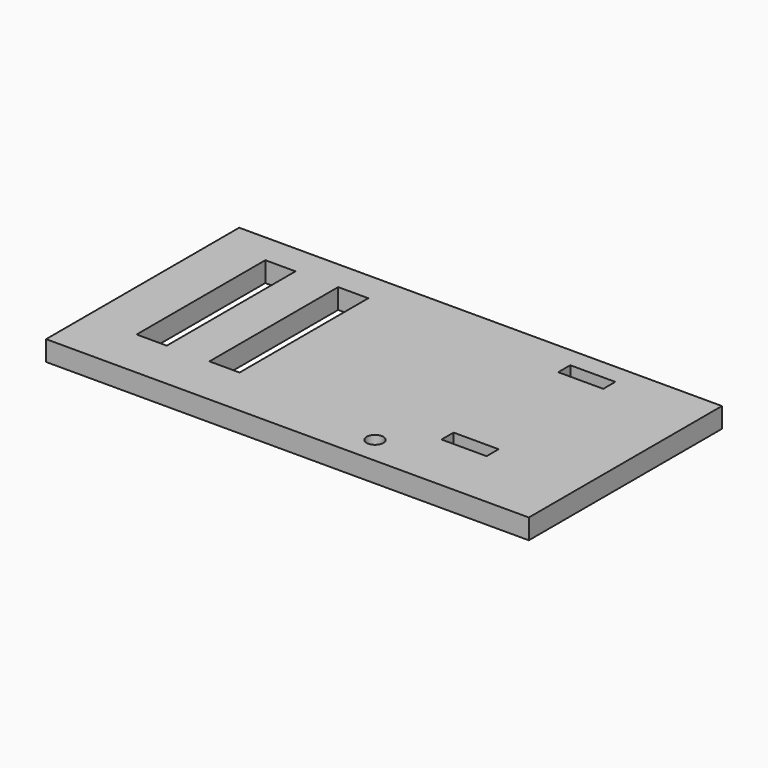
from build123d import *

# Parameters (mm, degrees)
F0_W     = 152.4
F0_H     = 76.2
F0_R     = 2.646467
F0_W_2   = 14.224
F0_H_2   = 4.7625
F0_W_3   = 9.525
F0_H_3   = 50.8
F1_DEPTH = 6.35


with BuildPart() as f1:
    # F0 (on Top) → F1 (new body)
    with BuildSketch(Plane.XY):
        with Locations((76.2, -38.1)):
            Rectangle(F0_W, F0_H)
        with Locations((96.901, -67.5386)):
            Circle(F0_R, mode=Mode.SUBTRACT)
        with Locations((116.713, -54.76875)):
            Rectangle(F0_W_2, F0_H_2, mode=Mode.SUBTRACT)
        with Locations((20.6375, -34.925)):
            Rectangle(F0_W_3, F0_H_3, mode=Mode.SUBTRACT)
        with Locations((43.6245, -34.925)):
            Rectangle(F0_W_3, F0_H_3, mode=Mode.SUBTRACT)
        with Locations((116.713, -8.73125)):
            Rectangle(F0_W_2, F0_H_2, mode=Mode.SUBTRACT)
    extrude(amount=F1_DEPTH)


solid = f1.part
